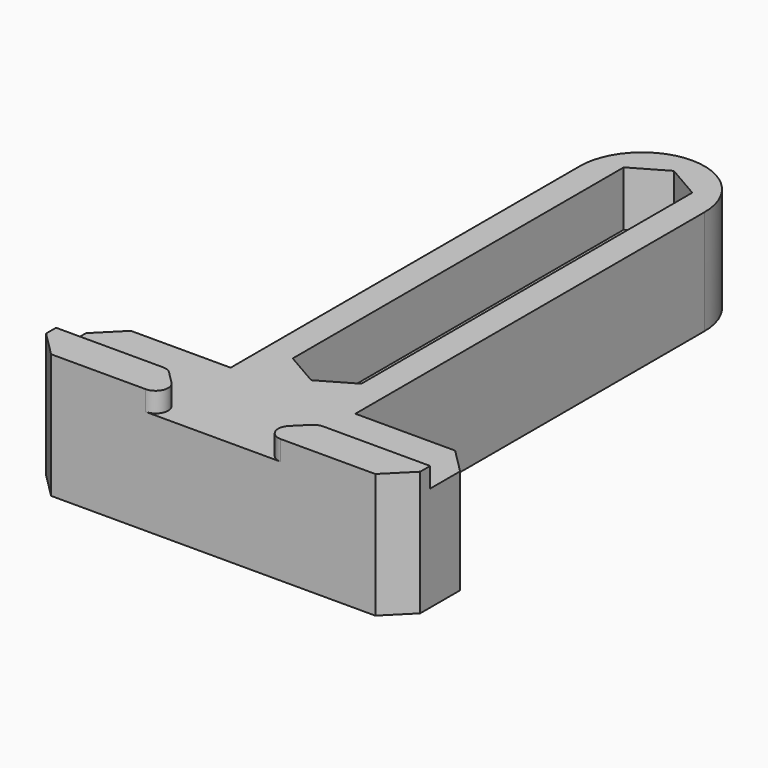
from build123d import *

# Parameters (mm, degrees)
PAD_DEPTH    = 4
SKETCH001_W  = 30
SKETCH001_H  = 8
PAD001_DEPTH = 6
POCKET_DEPTH = 1.6
CHAMFER_SIZE = 2
FILLET_R     = 1
PAD002_DEPTH = 4.4


with BuildPart() as part:
    # Sketch → Pad (new body)
    with BuildSketch(Plane.XY):
        with BuildLine():
            ThreePointArc((5, 29.999999), (0, 35), (-5, 29.999999))
            Line((-5, -5), (-5, 29.999999))
            Line((-15, -5), (-5, -5))
            Line((-15, -5), (-15, -13))
            Line((-15, -13), (15, -13))
            Line((15, -13), (15, -5))
            Line((5, -5), (15, -5))
            Line((5, 29.999999), (5, -5))
        make_face()
        with BuildLine():
            ThreePointArc((-1.6, 0), (0, -1.6), (1.6, 0))
            Line((1.6, 0), (1.6, 30))
            ThreePointArc((1.6, 30), (0, 31.6), (-1.6, 30))
            Line((-1.6, 0), (-1.6, 30))
        make_face(mode=Mode.SUBTRACT)
    extrude(amount=-PAD_DEPTH)

    # Sketch001 → Pad001 (join)
    with BuildSketch(Plane.XY):
        with Locations((0, -9)):
            Rectangle(SKETCH001_W, SKETCH001_H)
    extrude(amount=PAD001_DEPTH)

    # Sketch002 → Pocket (cut)
    with BuildSketch(Plane.XY.offset(6)):
        Polygon((-6, -10), (0, -16), (6, -10), (22.322094, -10), (22.322094, -1.337342), (-21.139692, -1.337342), (-21.139692, -10), align=None)
    extrude(amount=-POCKET_DEPTH, mode=Mode.SUBTRACT)

    # Chamfer
    chamfer_edges = [part.edges().sort_by_distance(p)[0] for p in [
        (15, -5, 2.2),
        (15, -13, 3),
        (-15, -5, 2.2),
        (-15, -13, 3),
    ]]
    chamfer(chamfer_edges, length=CHAMFER_SIZE)

    # Fillet
    fillet_edges = [part.edges().sort_by_distance(p)[0] for p in [
        (-6, -10, 5.2),
        (-3, -13, 5.2),
        (6, -10, 5.2),
        (3, -13, 5.2),
    ]]
    fillet(fillet_edges, radius=FILLET_R)

    # Sketch003 → Pad002 (join)
    with BuildSketch(Plane.XY):
        with BuildLine():
            ThreePointArc((5, 29.999992), (4e-06, 35), (-5, 30))
            Line((-5, 30), (-5, -5))
            Line((-5, -5), (5, -5))
            Line((5, -5), (5, 29.999992))
        make_face()
        Polygon((-2.75, -1.587713), (0, -3.175426), (2.75, -1.587713), (2.75, 31.587713), (0, 33.175426), (-2.75, 31.587713), align=None, mode=Mode.SUBTRACT)
    extrude(amount=PAD002_DEPTH)


solid = part.part
